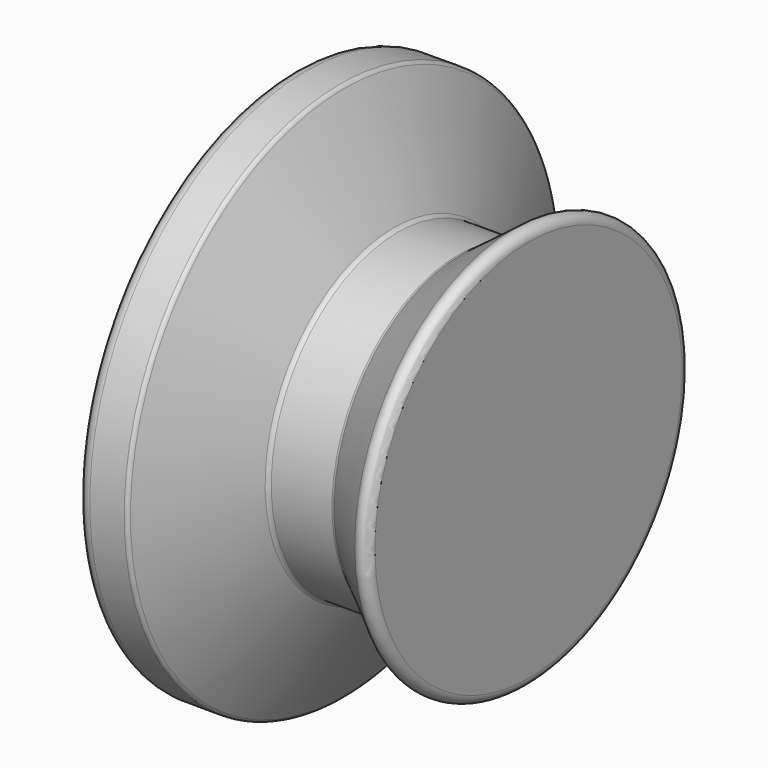
from build123d import *

# Parameters (mm, degrees)
F2_R = 1.905
F3_R = 0.635
F4_R = 1.27


with BuildPart() as f1:
    # F0 (on Front) → F1 (revolve)
    with BuildSketch(Plane.XZ):
        Polygon((0, 38.1), (0, 0), (33.3248, 0), (33.3248, 29.658252), (23.658611, 22.312216), (14.469195, 22.312216), (7.165415, 38.1), align=None)
    revolve(axis=Axis((16.6624, 0, 0), (1, 0, 0)))

    # F2
    f2_edges = [f1.edges().sort_by_distance(p)[0] for p in [
        (0, 0, -38.1),
    ]]
    fillet(f2_edges, radius=F2_R)

    # F3
    f3_edges = [f1.edges().sort_by_distance(p)[0] for p in [
        (7.165415, 0, -38.1),
        (14.469195, 0, -22.312216),
        (23.658611, 0, -22.312216),
    ]]
    fillet(f3_edges, radius=F3_R)

    # F4
    f4_edges = [f1.edges().sort_by_distance(p)[0] for p in [
        (33.3248, 0, -29.658252),
    ]]
    fillet(f4_edges, radius=F4_R)


solid = f1.part
